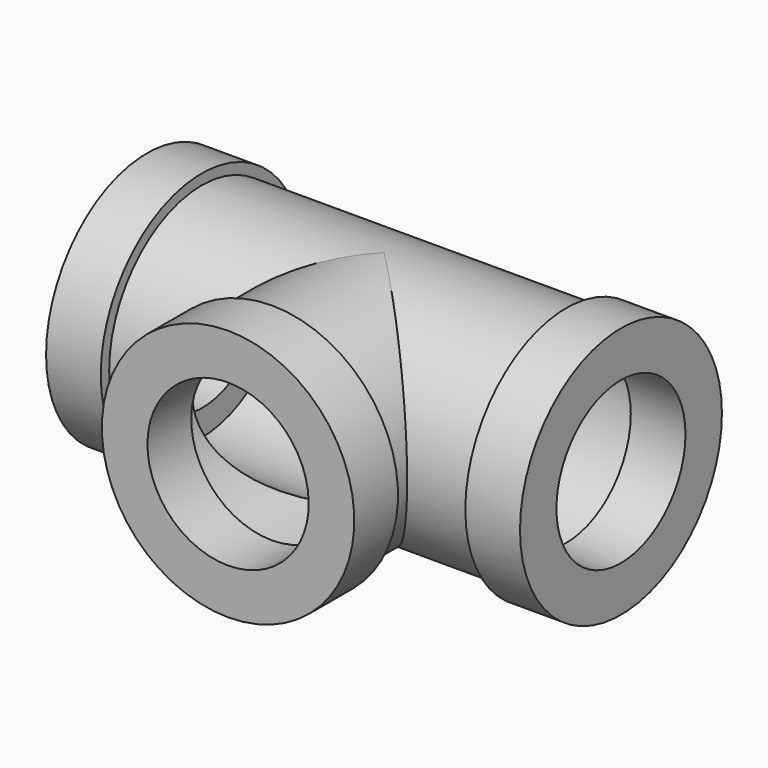
from build123d import *

# Parameters (mm, degrees)
SKETCH047_R          = 20.955
PAD005_DEPTH         = 33.02
SKETCH048_R          = 20.955
PAD006_DEPTH         = 25.4
SKETCH050_R          = 19.304
POCKET005_DEPTH      = 33.021
POCKET005_DEPTH_BACK = 33.021
SKETCH049_R          = 19.304
POCKET006_DEPTH      = 25.401
SKETCH051_R          = 22.86
SKETCH051_R_2        = 14.605
PAD007_DEPTH         = 9.906
SKETCH052_R          = 22.86
SKETCH052_R_2        = 14.605
PAD008_DEPTH         = 9.906
SKETCH053_R          = 22.86
SKETCH053_R_2        = 14.605
PAD009_DEPTH         = 9.906


with BuildPart() as part:
    # Sketch047 → Pad005 (new body, symmetric)
    with BuildSketch(Plane.YZ):
        Circle(SKETCH047_R)
    extrude(amount=PAD005_DEPTH, both=True)

    # Sketch048 → Pad006 (join)
    with BuildSketch(Plane.XZ):
        Circle(SKETCH048_R)
    extrude(amount=PAD006_DEPTH)

    # Sketch050 → Pocket005 (cut, two sides)
    with BuildSketch(Plane.YZ) as pocket005_sk:
        Circle(SKETCH050_R)
    extrude(amount=-POCKET005_DEPTH, mode=Mode.SUBTRACT)
    extrude(pocket005_sk.sketch, amount=POCKET005_DEPTH_BACK, mode=Mode.SUBTRACT)

    # Sketch049 → Pocket006 (cut, through all)
    with BuildSketch(Plane.XZ):
        Circle(SKETCH049_R)
    extrude(amount=POCKET006_DEPTH, mode=Mode.SUBTRACT)

    # Sketch051 (on Face6 of Pocket006) → Pad007 (join)
    with BuildSketch(Plane(origin=(0, -25.4, 0), x_dir=(0, 0, -1), z_dir=(0, -1, 0))):
        Circle(SKETCH051_R)
        Circle(SKETCH051_R_2, mode=Mode.SUBTRACT)
    extrude(amount=PAD007_DEPTH)

    # Sketch052 (on Face8 of Pad007) → Pad008 (join)
    with BuildSketch(Plane(origin=(-33.02, 0, 0), x_dir=(0, 1, 0), z_dir=(-1, 0, 0))):
        Circle(SKETCH052_R)
        Circle(SKETCH052_R_2, mode=Mode.SUBTRACT)
    extrude(amount=PAD008_DEPTH)

    # Sketch053 (on Face6 of Pad008) → Pad009 (join)
    with BuildSketch(Plane.YZ.offset(33.02)):
        Circle(SKETCH053_R)
        Circle(SKETCH053_R_2, mode=Mode.SUBTRACT)
    extrude(amount=PAD009_DEPTH)


with BuildPart() as part_1:
    # Body013 placement: moved
    add(part.part.moved(Location((-381, 0, 0))))


solid = part_1.part
